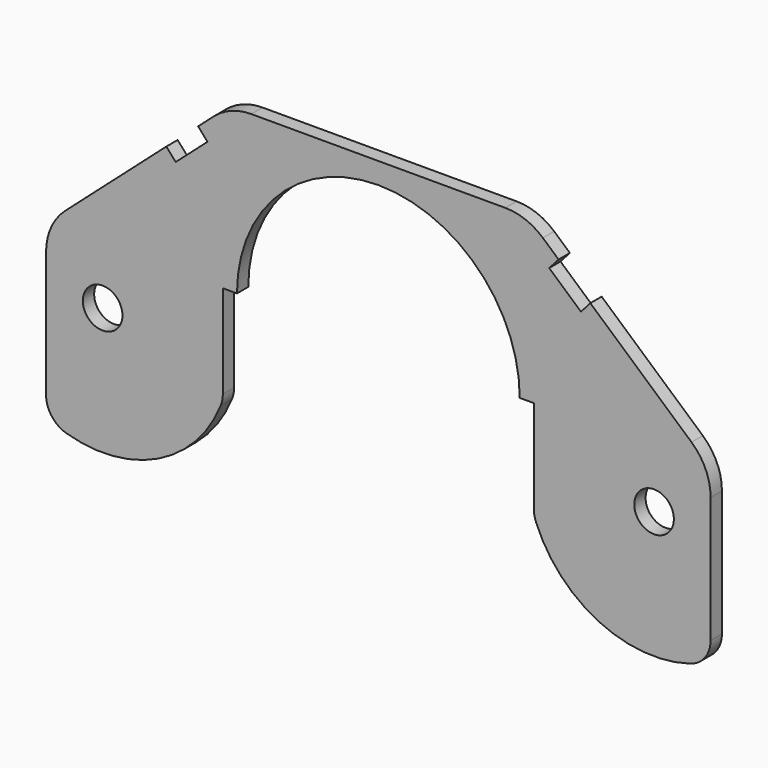
from build123d import *

# Parameters (mm, degrees)
F0_R     = 7
F1_DEPTH = 5


with BuildPart() as f1:
    # F0 (on Front) → F1 (new body)
    with BuildSketch(Plane.XZ):
        with BuildLine():
            ThreePointArc((-50, 0), (0, 50), (50, 0))
            Line((50, 0), (55, 0))
            Line((55, 0), (55, -32.990381))
            ThreePointArc((55, -32.990381), (55.180195, -34.880203), (55.714286, -36.701919))
            ThreePointArc((55.714286, -36.701919), (77.910478, -60.512351), (110.357143, -63.124168))
            ThreePointArc((110.357143, -63.124168), (115.517837, -59.517163), (117.5, -53.54102))
            Line((117.5, -53.54102), (117.5, -9.010085))
            ThreePointArc((117.5, -9.010085), (115.734988, -0.795146), (110.751478, 5.969847))
            Line((110.751478, 5.969847), (74.969897, 37.622784))
            Line((74.969897, 37.622784), (71.657027, 33.877801))
            Line((71.657027, 33.877801), (60.422079, 43.816409))
            Line((60.422079, 43.816409), (63.734948, 47.561392))
            Line((63.734948, 47.561392), (58.17486, 52.479931))
            ThreePointArc((58.17486, 52.479931), (52.008627, 56.202923), (44.923383, 57.5))
            Line((44.923383, 57.5), (42.5, 57.5))
            Line((42.5, 57.5), (-42.5, 57.5))
            Line((-42.5, 57.5), (-44.923383, 57.5))
            ThreePointArc((-44.923383, 57.5), (-52.008627, 56.202923), (-58.17486, 52.479931))
            Line((-58.17486, 52.479931), (-63.734948, 47.561392))
            Line((-63.734948, 47.561392), (-60.422079, 43.816409))
            Line((-60.422079, 43.816409), (-71.657027, 33.877801))
            Line((-71.657027, 33.877801), (-74.969897, 37.622784))
            Line((-74.969897, 37.622784), (-110.751478, 5.969847))
            ThreePointArc((-110.751478, 5.969847), (-115.734988, -0.795146), (-117.5, -9.010085))
            Line((-117.5, -9.010085), (-117.5, -53.54102))
            ThreePointArc((-117.5, -53.54102), (-115.517837, -59.517163), (-110.357143, -63.124168))
            ThreePointArc((-110.357143, -63.124168), (-77.910478, -60.512351), (-55.714286, -36.701919))
            ThreePointArc((-55.714286, -36.701919), (-55.180195, -34.880203), (-55, -32.990381))
            Line((-55, -32.990381), (-55, 0))
            Line((-55, 0), (-50, 0))
        make_face()
        with Locations((-97.5, -20)):
            Circle(F0_R, mode=Mode.SUBTRACT)
        with Locations((97.5, -20)):
            Circle(F0_R, mode=Mode.SUBTRACT)
    extrude(amount=F1_DEPTH)


solid = f1.part
